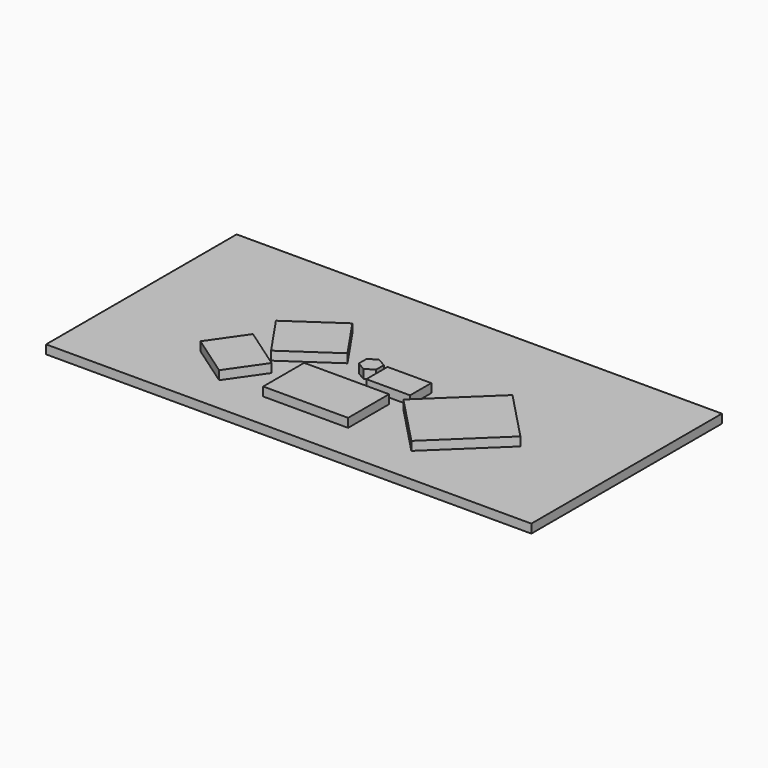
from build123d import *

# Parameters (mm, degrees)
F0_W     = 1397
F0_H     = 685.8
F1_DEPTH = 25.4
F2_W     = 244.378712
F2_H     = 147.354192
F2_W_2   = 125.881126
F2_H_2   = 76.2
F3_DEPTH = 25.4


with BuildPart() as f1:
    # F0 (on Top) → F1 (new body)
    with BuildSketch(Plane.XY):
        with Locations((36.560644, 0)):
            Rectangle(F0_W, F0_H)
    extrude(amount=F1_DEPTH)


with BuildPart() as f3:
    # F2 (on face) → F3 (new body)
    with BuildSketch(Plane.XY.offset(25.4)):
        with Locations((0, -162.577096)):
            Rectangle(F2_W, F2_H)
        Polygon((163.560644, -88.9), (303.260644, -234.95), (481.120072, -64.823591), (341.420072, 81.226409), align=None)
        Polygon((-217.439356, -88.9), (-75.24987, 8.387543), (-157.79987, 129.037543), (-299.989356, 31.75), align=None)
        Polygon((-249.189356, -236.254192), (-178.956088, -135.202072), (-299.606088, -51.347881), (-369.839356, -152.4), align=None)
        Polygon((24.612389, -14.20997), (24.612389, 14.20997), (0, 28.419939), (-24.612389, 14.20997), (-24.612389, -14.20997), (0, -28.419939), align=None)
        with Locations((99.501207, -25.4)):
            Rectangle(F2_W_2, F2_H_2)
    extrude(amount=F3_DEPTH)


solid = Compound([f1.part, f3.part])
